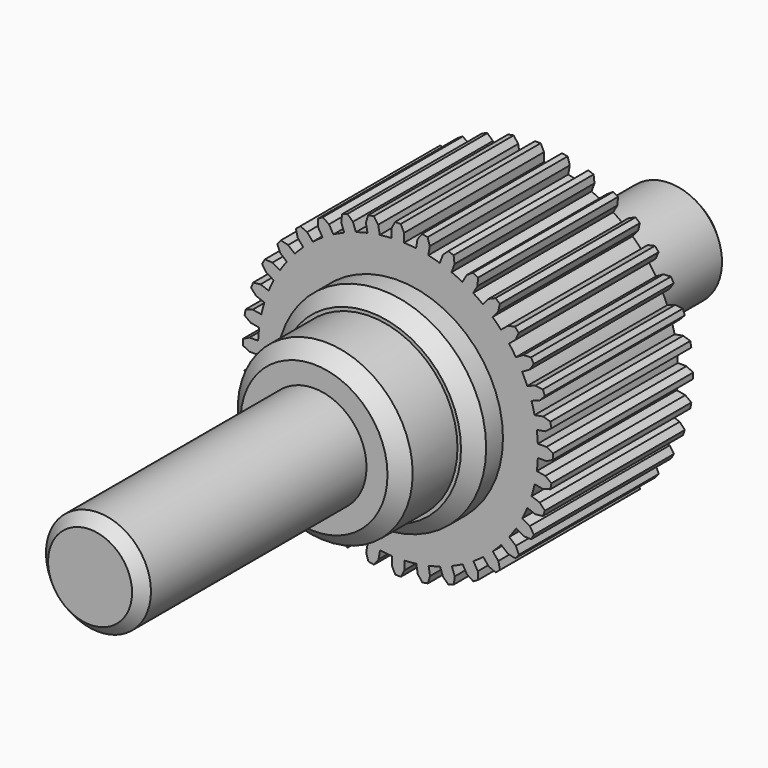
from build123d import *

# Parameters (mm, degrees)
F1_DEPTH  = 25
F2_R      = 15
F3_DEPTH  = 5
F4_R      = 12.5
F5_DEPTH  = 10
F6_R      = 7.5
F7_DEPTH  = 40
F9_DEPTH  = 25
F10_SIZE  = 2
F11_SIZE  = 1.5
F12_R     = 7.5
F13_DEPTH = 25
F14_SIZE  = 1.5


with BuildPart() as f1:
    # F0 (on Front) → F1 (new body)
    with BuildSketch(Plane.XZ):
        with BuildLine():
            ThreePointArc((19.980992, -0.871749), (19.995248, -0.435978), (20, 0))
            ThreePointArc((20, 0), (19.994813, 0.455463), (19.979255, 0.910689))
            ThreePointArc((19.979255, 0.910689), (19.922186, 1.762529), (19.828814, 2.611158))
            ThreePointArc((19.828814, 2.611158), (19.692761, 3.492155), (19.517586, 4.366215))
            ThreePointArc((19.517586, 4.366215), (19.313463, 5.195204), (19.074147, 6.014726))
            ThreePointArc((19.074147, 6.014726), (18.787178, 6.858714), (18.462885, 7.689076))
            ThreePointArc((18.462885, 7.689076), (18.117911, 8.470025), (17.739921, 9.23554))
            ThreePointArc((17.739921, 9.23554), (17.310755, 10.016874), (16.847198, 10.778308))
            ThreePointArc((16.847198, 10.778308), (16.371854, 11.487488), (15.866677, 12.175736))
            ThreePointArc((15.866677, 12.175736), (15.308354, 12.870676), (14.719618, 13.540046))
            ThreePointArc((14.719618, 13.540046), (14.128348, 14.15591), (13.511333, 14.745979))
            ThreePointArc((13.511333, 14.745979), (12.840816, 15.333409), (12.14479, 15.890377))
            ThreePointArc((12.14479, 15.890377), (11.455558, 16.394212), (10.745453, 16.868173))
            ThreePointArc((10.745453, 16.868173), (9.983117, 17.330245), (9.200948, 17.757887))
            ThreePointArc((9.200948, 17.757887), (8.434698, 18.134384), (7.653078, 18.477835))
            ThreePointArc((7.653078, 18.477835), (6.822085, 18.800509), (5.97754, 19.085833))
            ThreePointArc((5.97754, 19.085833), (5.157553, 19.323552), (4.328168, 19.526059))
            ThreePointArc((4.328168, 19.526059), (3.453768, 19.69953), (2.572508, 19.833865))
            ThreePointArc((2.572508, 19.833865), (1.723699, 19.925583), (0.871749, 19.980992))
            ThreePointArc((0.871749, 19.980992), (0.428748, 19.995404), (-0.014463, 19.999995))
            ThreePointArc((-0.014463, 19.999995), (-0.462692, 19.994647), (-0.910689, 19.979255))
            ThreePointArc((-0.910689, 19.979255), (-1.762529, 19.922186), (-2.611158, 19.828814))
            ThreePointArc((-2.611158, 19.828814), (-3.492155, 19.692761), (-4.366215, 19.517586))
            ThreePointArc((-4.366215, 19.517586), (-5.195204, 19.313463), (-6.014726, 19.074147))
            ThreePointArc((-6.014726, 19.074147), (-6.858714, 18.787178), (-7.689076, 18.462885))
            ThreePointArc((-7.689076, 18.462885), (-8.470025, 18.117911), (-9.23554, 17.739921))
            ThreePointArc((-9.23554, 17.739921), (-10.016874, 17.310755), (-10.778308, 16.847198))
            ThreePointArc((-10.778308, 16.847198), (-11.487488, 16.371854), (-12.175736, 15.866677))
            ThreePointArc((-12.175736, 15.866677), (-12.870676, 15.308354), (-13.540046, 14.719618))
            ThreePointArc((-13.540046, 14.719618), (-14.15591, 14.128348), (-14.745979, 13.511333))
            ThreePointArc((-14.745979, 13.511333), (-15.333409, 12.840816), (-15.890377, 12.14479))
            ThreePointArc((-15.890377, 12.14479), (-16.394212, 11.455558), (-16.868173, 10.745453))
            ThreePointArc((-16.868173, 10.745453), (-17.330245, 9.983117), (-17.757887, 9.200948))
            ThreePointArc((-17.757887, 9.200948), (-18.134384, 8.434698), (-18.477835, 7.653078))
            ThreePointArc((-18.477835, 7.653078), (-18.800509, 6.822085), (-19.085833, 5.97754))
            ThreePointArc((-19.085833, 5.97754), (-19.323552, 5.157553), (-19.526059, 4.328168))
            ThreePointArc((-19.526059, 4.328168), (-19.69953, 3.453768), (-19.833865, 2.572508))
            ThreePointArc((-19.833865, 2.572508), (-19.925583, 1.723699), (-19.980992, 0.871749))
            ThreePointArc((-19.980992, 0.871749), (-19.999991, -0.01949), (-19.979255, -0.910689))
            ThreePointArc((-19.979255, -0.910689), (-19.922186, -1.762529), (-19.828814, -2.611158))
            ThreePointArc((-19.828814, -2.611158), (-19.692761, -3.492155), (-19.517586, -4.366215))
            ThreePointArc((-19.517586, -4.366215), (-19.313463, -5.195204), (-19.074147, -6.014726))
            ThreePointArc((-19.074147, -6.014726), (-18.787178, -6.858714), (-18.462885, -7.689076))
            ThreePointArc((-18.462885, -7.689076), (-18.117911, -8.470025), (-17.739921, -9.23554))
            ThreePointArc((-17.739921, -9.23554), (-17.310755, -10.016874), (-16.847198, -10.778308))
            ThreePointArc((-16.847198, -10.778308), (-16.371854, -11.487488), (-15.866677, -12.175736))
            ThreePointArc((-15.866677, -12.175736), (-15.308354, -12.870676), (-14.719618, -13.540046))
            ThreePointArc((-14.719618, -13.540046), (-14.128348, -14.15591), (-13.511333, -14.745979))
            ThreePointArc((-13.511333, -14.745979), (-12.840816, -15.333409), (-12.14479, -15.890377))
            ThreePointArc((-12.14479, -15.890377), (-11.455558, -16.394212), (-10.745453, -16.868173))
            ThreePointArc((-10.745453, -16.868173), (-9.983117, -17.330245), (-9.200948, -17.757887))
            ThreePointArc((-9.200948, -17.757887), (-8.434698, -18.134384), (-7.653078, -18.477835))
            ThreePointArc((-7.653078, -18.477835), (-6.822085, -18.800509), (-5.97754, -19.085833))
            ThreePointArc((-5.97754, -19.085833), (-5.157553, -19.323552), (-4.328168, -19.526059))
            ThreePointArc((-4.328168, -19.526059), (-3.453768, -19.69953), (-2.572508, -19.833865))
            ThreePointArc((-2.572508, -19.833865), (-1.723699, -19.925583), (-0.871749, -19.980992))
            ThreePointArc((-0.871749, -19.980992), (0.01949, -19.999991), (0.910689, -19.979255))
            ThreePointArc((0.910689, -19.979255), (1.762529, -19.922186), (2.611158, -19.828814))
            ThreePointArc((2.611158, -19.828814), (3.492155, -19.692761), (4.366215, -19.517586))
            ThreePointArc((4.366215, -19.517586), (5.195204, -19.313463), (6.014726, -19.074147))
            ThreePointArc((6.014726, -19.074147), (6.858714, -18.787178), (7.689076, -18.462885))
            ThreePointArc((7.689076, -18.462885), (8.470025, -18.117911), (9.23554, -17.739921))
            ThreePointArc((9.23554, -17.739921), (10.016874, -17.310755), (10.778308, -16.847198))
            ThreePointArc((10.778308, -16.847198), (11.487488, -16.371854), (12.175736, -15.866677))
            ThreePointArc((12.175736, -15.866677), (12.870676, -15.308354), (13.540046, -14.719618))
            ThreePointArc((13.540046, -14.719618), (14.15591, -14.128348), (14.745979, -13.511333))
            ThreePointArc((14.745979, -13.511333), (15.333409, -12.840816), (15.890377, -12.14479))
            ThreePointArc((15.890377, -12.14479), (16.394212, -11.455558), (16.868173, -10.745453))
            ThreePointArc((16.868173, -10.745453), (17.330245, -9.983117), (17.757887, -9.200948))
            ThreePointArc((17.757887, -9.200948), (18.134384, -8.434698), (18.477835, -7.653078))
            ThreePointArc((18.477835, -7.653078), (18.800509, -6.822085), (19.085833, -5.97754))
            ThreePointArc((19.085833, -5.97754), (19.323552, -5.157553), (19.526059, -4.328168))
            ThreePointArc((19.526059, -4.328168), (19.69953, -3.453768), (19.833865, -2.572508))
            ThreePointArc((19.833865, -2.572508), (19.925583, -1.723699), (19.980992, -0.871749))
        make_face()
        with BuildLine():
            ThreePointArc((19.979255, 0.910689), (19.994813, 0.455463), (20, 0))
            ThreePointArc((20, 0), (19.995248, -0.435978), (19.980992, -0.871749))
            Line((19.980992, -0.871749), (21.221197, -0.871749))
            Line((21.221197, -0.871749), (22.18212, -0.386598))
            Line((22.18212, -0.386598), (22.18212, 0.422863))
            Line((22.18212, 0.422863), (21.21946, 0.910689))
            Line((21.21946, 0.910689), (19.979255, 0.910689))
        make_face()
        with BuildLine():
            ThreePointArc((19.517586, 4.366215), (19.692761, 3.492155), (19.828814, 2.611158))
            Line((19.828814, 2.611158), (21.050177, 2.826517))
            Line((21.050177, 2.826517), (21.912256, 3.47116))
            Line((21.912256, 3.47116), (21.771694, 4.268324))
            Line((21.771694, 4.268324), (20.73895, 4.581574))
            Line((20.73895, 4.581574), (19.517586, 4.366215))
        make_face()
        with BuildLine():
            Line((21.055228, -2.787867), (19.833865, -2.572508))
            ThreePointArc((19.833865, -2.572508), (19.69953, -3.453768), (19.526059, -4.328168))
            Line((19.526059, -4.328168), (20.747422, -4.543527))
            Line((20.747422, -4.543527), (21.777991, -4.23261))
            Line((21.777991, -4.23261), (21.918553, -3.435446))
            Line((21.918553, -3.435446), (21.055228, -2.787867))
        make_face()
        with BuildLine():
            ThreePointArc((18.462885, 7.689076), (18.787178, 6.858714), (19.074147, 6.014726))
            Line((19.074147, 6.014726), (20.239558, 6.438901))
            Line((20.239558, 6.438901), (20.976599, 7.223448))
            Line((20.976599, 7.223448), (20.699746, 7.984093))
            Line((20.699746, 7.984093), (19.628296, 8.113251))
            Line((19.628296, 8.113251), (18.462885, 7.689076))
        make_face()
        with BuildLine():
            Line((20.251244, -6.401715), (19.085833, -5.97754))
            ThreePointArc((19.085833, -5.97754), (18.800509, -6.822085), (18.477835, -7.653078))
            Line((18.477835, -7.653078), (19.643247, -8.077253))
            Line((19.643247, -8.077253), (20.71215, -7.950015))
            Line((20.71215, -7.950015), (20.989002, -7.18937))
            Line((20.989002, -7.18937), (20.251244, -6.401715))
        make_face()
        with BuildLine():
            ThreePointArc((16.847198, 10.778308), (17.310755, 10.016874), (17.739921, 9.23554))
            Line((17.739921, 9.23554), (18.81397, 9.855642))
            Line((18.81397, 9.855642), (19.403578, 10.756256))
            Line((19.403578, 10.756256), (18.998847, 11.45727))
            Line((18.998847, 11.45727), (17.921247, 11.39841))
            Line((17.921247, 11.39841), (16.847198, 10.778308))
        make_face()
        with BuildLine():
            Line((18.831936, -9.82105), (17.757887, -9.200948))
            ThreePointArc((17.757887, -9.200948), (17.330245, -9.983117), (16.868173, -10.745453))
            Line((16.868173, -10.745453), (17.942222, -11.365555))
            Line((17.942222, -11.365555), (19.01698, -11.425864))
            Line((19.01698, -11.425864), (19.421711, -10.724849))
            Line((19.421711, -10.724849), (18.831936, -9.82105))
        make_face()
        with BuildLine():
            ThreePointArc((14.719618, 13.540046), (15.308354, 12.870676), (15.866677, 12.175736))
            Line((15.866677, 12.175736), (16.816729, 12.972924))
            Line((16.816729, 12.972924), (17.24099, 13.96224))
            Line((17.24099, 13.96224), (16.720678, 14.582324))
            Line((16.720678, 14.582324), (15.66967, 14.337234))
            Line((15.66967, 14.337234), (14.719618, 13.540046))
        make_face()
        with BuildLine():
            Line((16.840429, -12.941978), (15.890377, -12.14479))
            ThreePointArc((15.890377, -12.14479), (15.333409, -12.840816), (14.745979, -13.511333))
            Line((14.745979, -13.511333), (15.696031, -14.308521))
            Line((15.696031, -14.308521), (16.743989, -14.554543))
            Line((16.743989, -14.554543), (17.264301, -13.93446))
            Line((17.264301, -13.93446), (16.840429, -12.941978))
        make_face()
        with BuildLine():
            ThreePointArc((12.14479, 15.890377), (12.840816, 15.333409), (13.511333, 14.745979))
            Line((13.511333, 14.745979), (14.308521, 15.696031))
            Line((14.308521, 15.696031), (14.554543, 16.743989))
            Line((14.554543, 16.743989), (13.93446, 17.264301))
            Line((13.93446, 17.264301), (12.941978, 16.840429))
            Line((12.941978, 16.840429), (12.14479, 15.890377))
        make_face()
        with BuildLine():
            Line((14.337234, -15.66967), (13.540046, -14.719618))
            ThreePointArc((13.540046, -14.719618), (12.870676, -15.308354), (12.175736, -15.866677))
            Line((12.175736, -15.866677), (12.972924, -16.816729))
            Line((12.972924, -16.816729), (13.96224, -17.24099))
            Line((13.96224, -17.24099), (14.582324, -16.720678))
            Line((14.582324, -16.720678), (14.337234, -15.66967))
        make_face()
        with BuildLine():
            ThreePointArc((9.200948, 17.757887), (9.983117, 17.330245), (10.745453, 16.868173))
            Line((10.745453, 16.868173), (11.365555, 17.942222))
            Line((11.365555, 17.942222), (11.425864, 19.01698))
            Line((11.425864, 19.01698), (10.724849, 19.421711))
            Line((10.724849, 19.421711), (9.82105, 18.831936))
            Line((9.82105, 18.831936), (9.200948, 17.757887))
        make_face()
        with BuildLine():
            Line((11.39841, -17.921247), (10.778308, -16.847198))
            ThreePointArc((10.778308, -16.847198), (10.016874, -17.310755), (9.23554, -17.739921))
            Line((9.23554, -17.739921), (9.855642, -18.81397))
            Line((9.855642, -18.81397), (10.756256, -19.403578))
            Line((10.756256, -19.403578), (11.45727, -18.998847))
            Line((11.45727, -18.998847), (11.39841, -17.921247))
        make_face()
        with BuildLine():
            ThreePointArc((5.97754, 19.085833), (6.822085, 18.800509), (7.653078, 18.477835))
            Line((7.653078, 18.477835), (8.077253, 19.643247))
            Line((8.077253, 19.643247), (7.950015, 20.71215))
            Line((7.950015, 20.71215), (7.18937, 20.989002))
            Line((7.18937, 20.989002), (6.401715, 20.251244))
            Line((6.401715, 20.251244), (5.97754, 19.085833))
        make_face()
        with BuildLine():
            Line((8.113251, -19.628296), (7.689076, -18.462885))
            ThreePointArc((7.689076, -18.462885), (6.858714, -18.787178), (6.014726, -19.074147))
            Line((6.014726, -19.074147), (6.438901, -20.239558))
            Line((6.438901, -20.239558), (7.223448, -20.976599))
            Line((7.223448, -20.976599), (7.984093, -20.699746))
            Line((7.984093, -20.699746), (8.113251, -19.628296))
        make_face()
        with BuildLine():
            ThreePointArc((2.572508, 19.833865), (3.453768, 19.69953), (4.328168, 19.526059))
            Line((4.328168, 19.526059), (4.543527, 20.747422))
            Line((4.543527, 20.747422), (4.23261, 21.777991))
            Line((4.23261, 21.777991), (3.435446, 21.918553))
            Line((3.435446, 21.918553), (2.787867, 21.055228))
            Line((2.787867, 21.055228), (2.572508, 19.833865))
        make_face()
        with BuildLine():
            Line((4.581574, -20.73895), (4.366215, -19.517586))
            ThreePointArc((4.366215, -19.517586), (3.492155, -19.692761), (2.611158, -19.828814))
            Line((2.611158, -19.828814), (2.826517, -21.050177))
            Line((2.826517, -21.050177), (3.47116, -21.912256))
            Line((3.47116, -21.912256), (4.268324, -21.771694))
            Line((4.268324, -21.771694), (4.581574, -20.73895))
        make_face()
        with BuildLine():
            ThreePointArc((-0.014463, 19.999995), (0.428748, 19.995404), (0.871749, 19.980992))
            Line((0.871749, 19.980992), (0.871749, 21.221197))
            Line((0.871749, 21.221197), (0.386598, 22.18212))
            Line((0.386598, 22.18212), (-0.01604, 22.18212))
            Line((-0.01604, 22.18212), (-0.014463, 19.999995))
        make_face()
        with BuildLine():
            Line((0.910689, -21.21946), (0.910689, -19.979255))
            ThreePointArc((0.910689, -19.979255), (0.01949, -19.999991), (-0.871749, -19.980992))
            Line((-0.871749, -19.980992), (-0.871749, -21.221197))
            Line((-0.871749, -21.221197), (-0.386598, -22.18212))
            Line((-0.386598, -22.18212), (0.422863, -22.18212))
            Line((0.422863, -22.18212), (0.910689, -21.21946))
        make_face()
        with BuildLine():
            ThreePointArc((-0.910689, 19.979255), (-0.462692, 19.994647), (-0.014463, 19.999995))
            Line((-0.014463, 19.999995), (-0.01604, 22.18212))
            Line((-0.01604, 22.18212), (-0.422863, 22.18212))
            Line((-0.422863, 22.18212), (-0.910689, 21.21946))
            Line((-0.910689, 21.21946), (-0.910689, 19.979255))
        make_face()
        with BuildLine():
            Line((-2.787867, -21.055228), (-2.572508, -19.833865))
            ThreePointArc((-2.572508, -19.833865), (-3.453768, -19.69953), (-4.328168, -19.526059))
            Line((-4.328168, -19.526059), (-4.543527, -20.747422))
            Line((-4.543527, -20.747422), (-4.23261, -21.777991))
            Line((-4.23261, -21.777991), (-3.435446, -21.918553))
            Line((-3.435446, -21.918553), (-2.787867, -21.055228))
        make_face()
        with BuildLine():
            ThreePointArc((-4.366215, 19.517586), (-3.492155, 19.692761), (-2.611158, 19.828814))
            Line((-2.611158, 19.828814), (-2.826517, 21.050177))
            Line((-2.826517, 21.050177), (-3.47116, 21.912256))
            Line((-3.47116, 21.912256), (-4.268324, 21.771694))
            Line((-4.268324, 21.771694), (-4.581574, 20.73895))
            Line((-4.581574, 20.73895), (-4.366215, 19.517586))
        make_face()
        with BuildLine():
            Line((-6.401715, -20.251244), (-5.97754, -19.085833))
            ThreePointArc((-5.97754, -19.085833), (-6.822085, -18.800509), (-7.653078, -18.477835))
            Line((-7.653078, -18.477835), (-8.077253, -19.643247))
            Line((-8.077253, -19.643247), (-7.950015, -20.71215))
            Line((-7.950015, -20.71215), (-7.18937, -20.989002))
            Line((-7.18937, -20.989002), (-6.401715, -20.251244))
        make_face()
        with BuildLine():
            ThreePointArc((-7.689076, 18.462885), (-6.858714, 18.787178), (-6.014726, 19.074147))
            Line((-6.014726, 19.074147), (-6.438901, 20.239558))
            Line((-6.438901, 20.239558), (-7.223448, 20.976599))
            Line((-7.223448, 20.976599), (-7.984093, 20.699746))
            Line((-7.984093, 20.699746), (-8.113251, 19.628296))
            Line((-8.113251, 19.628296), (-7.689076, 18.462885))
        make_face()
        with BuildLine():
            Line((-9.82105, -18.831936), (-9.200948, -17.757887))
            ThreePointArc((-9.200948, -17.757887), (-9.983117, -17.330245), (-10.745453, -16.868173))
            Line((-10.745453, -16.868173), (-11.365555, -17.942222))
            Line((-11.365555, -17.942222), (-11.425864, -19.01698))
            Line((-11.425864, -19.01698), (-10.724849, -19.421711))
            Line((-10.724849, -19.421711), (-9.82105, -18.831936))
        make_face()
        with BuildLine():
            ThreePointArc((-10.778308, 16.847198), (-10.016874, 17.310755), (-9.23554, 17.739921))
            Line((-9.23554, 17.739921), (-9.855642, 18.81397))
            Line((-9.855642, 18.81397), (-10.756256, 19.403578))
            Line((-10.756256, 19.403578), (-11.45727, 18.998847))
            Line((-11.45727, 18.998847), (-11.39841, 17.921247))
            Line((-11.39841, 17.921247), (-10.778308, 16.847198))
        make_face()
        with BuildLine():
            Line((-12.941978, -16.840429), (-12.14479, -15.890377))
            ThreePointArc((-12.14479, -15.890377), (-12.840816, -15.333409), (-13.511333, -14.745979))
            Line((-13.511333, -14.745979), (-14.308521, -15.696031))
            Line((-14.308521, -15.696031), (-14.554543, -16.743989))
            Line((-14.554543, -16.743989), (-13.93446, -17.264301))
            Line((-13.93446, -17.264301), (-12.941978, -16.840429))
        make_face()
        with BuildLine():
            ThreePointArc((-13.540046, 14.719618), (-12.870676, 15.308354), (-12.175736, 15.866677))
            Line((-12.175736, 15.866677), (-12.972924, 16.816729))
            Line((-12.972924, 16.816729), (-13.96224, 17.24099))
            Line((-13.96224, 17.24099), (-14.582324, 16.720678))
            Line((-14.582324, 16.720678), (-14.337234, 15.66967))
            Line((-14.337234, 15.66967), (-13.540046, 14.719618))
        make_face()
        with BuildLine():
            Line((-15.66967, -14.337234), (-14.719618, -13.540046))
            ThreePointArc((-14.719618, -13.540046), (-15.308354, -12.870676), (-15.866677, -12.175736))
            Line((-15.866677, -12.175736), (-16.816729, -12.972924))
            Line((-16.816729, -12.972924), (-17.24099, -13.96224))
            Line((-17.24099, -13.96224), (-16.720678, -14.582324))
            Line((-16.720678, -14.582324), (-15.66967, -14.337234))
        make_face()
        with BuildLine():
            ThreePointArc((-15.890377, 12.14479), (-15.333409, 12.840816), (-14.745979, 13.511333))
            Line((-14.745979, 13.511333), (-15.696031, 14.308521))
            Line((-15.696031, 14.308521), (-16.743989, 14.554543))
            Line((-16.743989, 14.554543), (-17.264301, 13.93446))
            Line((-17.264301, 13.93446), (-16.840429, 12.941978))
            Line((-16.840429, 12.941978), (-15.890377, 12.14479))
        make_face()
        with BuildLine():
            Line((-17.921247, -11.39841), (-16.847198, -10.778308))
            ThreePointArc((-16.847198, -10.778308), (-17.310755, -10.016874), (-17.739921, -9.23554))
            Line((-17.739921, -9.23554), (-18.81397, -9.855642))
            Line((-18.81397, -9.855642), (-19.403578, -10.756256))
            Line((-19.403578, -10.756256), (-18.998847, -11.45727))
            Line((-18.998847, -11.45727), (-17.921247, -11.39841))
        make_face()
        with BuildLine():
            ThreePointArc((-17.757887, 9.200948), (-17.330245, 9.983117), (-16.868173, 10.745453))
            Line((-16.868173, 10.745453), (-17.942222, 11.365555))
            Line((-17.942222, 11.365555), (-19.01698, 11.425864))
            Line((-19.01698, 11.425864), (-19.421711, 10.724849))
            Line((-19.421711, 10.724849), (-18.831936, 9.82105))
            Line((-18.831936, 9.82105), (-17.757887, 9.200948))
        make_face()
        with BuildLine():
            Line((-19.628296, -8.113251), (-18.462885, -7.689076))
            ThreePointArc((-18.462885, -7.689076), (-18.787178, -6.858714), (-19.074147, -6.014726))
            Line((-19.074147, -6.014726), (-20.239558, -6.438901))
            Line((-20.239558, -6.438901), (-20.976599, -7.223448))
            Line((-20.976599, -7.223448), (-20.699746, -7.984093))
            Line((-20.699746, -7.984093), (-19.628296, -8.113251))
        make_face()
        with BuildLine():
            ThreePointArc((-19.085833, 5.97754), (-18.800509, 6.822085), (-18.477835, 7.653078))
            Line((-18.477835, 7.653078), (-19.643247, 8.077253))
            Line((-19.643247, 8.077253), (-20.71215, 7.950015))
            Line((-20.71215, 7.950015), (-20.989002, 7.18937))
            Line((-20.989002, 7.18937), (-20.251244, 6.401715))
            Line((-20.251244, 6.401715), (-19.085833, 5.97754))
        make_face()
        with BuildLine():
            Line((-20.73895, -4.581574), (-19.517586, -4.366215))
            ThreePointArc((-19.517586, -4.366215), (-19.692761, -3.492155), (-19.828814, -2.611158))
            Line((-19.828814, -2.611158), (-21.050177, -2.826517))
            Line((-21.050177, -2.826517), (-21.912256, -3.47116))
            Line((-21.912256, -3.47116), (-21.771694, -4.268324))
            Line((-21.771694, -4.268324), (-20.73895, -4.581574))
        make_face()
        with BuildLine():
            ThreePointArc((-19.833865, 2.572508), (-19.69953, 3.453768), (-19.526059, 4.328168))
            Line((-19.526059, 4.328168), (-20.747422, 4.543527))
            Line((-20.747422, 4.543527), (-21.777991, 4.23261))
            Line((-21.777991, 4.23261), (-21.918553, 3.435446))
            Line((-21.918553, 3.435446), (-21.055228, 2.787867))
            Line((-21.055228, 2.787867), (-19.833865, 2.572508))
        make_face()
        with BuildLine():
            Line((-21.21946, -0.910689), (-19.979255, -0.910689))
            ThreePointArc((-19.979255, -0.910689), (-19.999991, -0.01949), (-19.980992, 0.871749))
            Line((-19.980992, 0.871749), (-21.221197, 0.871749))
            Line((-21.221197, 0.871749), (-22.18212, 0.386598))
            Line((-22.18212, 0.386598), (-22.18212, -0.422863))
            Line((-22.18212, -0.422863), (-21.21946, -0.910689))
        make_face()
    extrude(amount=F1_DEPTH)

    # F2 (on face) → F3 (join)
    with BuildSketch(Plane.XZ.offset(25)):
        Circle(F2_R)
    extrude(amount=F3_DEPTH)

    # F4 (on face) → F5 (join)
    with BuildSketch(Plane.XZ.offset(30)):
        Circle(F4_R)
    extrude(amount=F5_DEPTH)

    # F6 (on face) → F7 (join)
    with BuildSketch(Plane.XZ.offset(40)):
        Circle(F6_R)
    extrude(amount=F7_DEPTH)

    # F8 (on Top) → F9 (cut)
    with BuildSketch(Plane.XY):
        with BuildLine():
            Line((3, -72.386412), (3, -63.386412))
            ThreePointArc((3, -63.386412), (2.12132, -61.265092), (0, -60.386412))
            ThreePointArc((0, -60.386412), (-2.12132, -61.265092), (-3, -63.386412))
            Line((-3, -63.386412), (-3, -72.386412))
            ThreePointArc((-3, -72.386412), (-2.12132, -74.507732), (0, -75.386412))
            ThreePointArc((0, -75.386412), (2.12132, -74.507732), (3, -72.386412))
        make_face()
    extrude(amount=-F9_DEPTH, mode=Mode.SUBTRACT)

    # F10
    f10_edges = [f1.edges().sort_by_distance(p)[0] for p in [
        (-15, -30, 0),
        (-12.5, -40, 0),
    ]]
    chamfer(f10_edges, length=F10_SIZE)

    # F11
    f11_edges = [f1.edges().sort_by_distance(p)[0] for p in [
        (-7.5, -80, 0),
    ]]
    chamfer(f11_edges, length=F11_SIZE)

    # F12 (on face) → F13 (join)
    with BuildSketch(Plane(origin=(0, 0, 0), x_dir=(-1, 0, 0), z_dir=(0, 1, 0))):
        Circle(F12_R)
    extrude(amount=F13_DEPTH)

    # F14
    f14_edges = [f1.edges().sort_by_distance(p)[0] for p in [
        (7.5, 25, 0),
    ]]
    chamfer(f14_edges, length=F14_SIZE)


solid = f1.part
